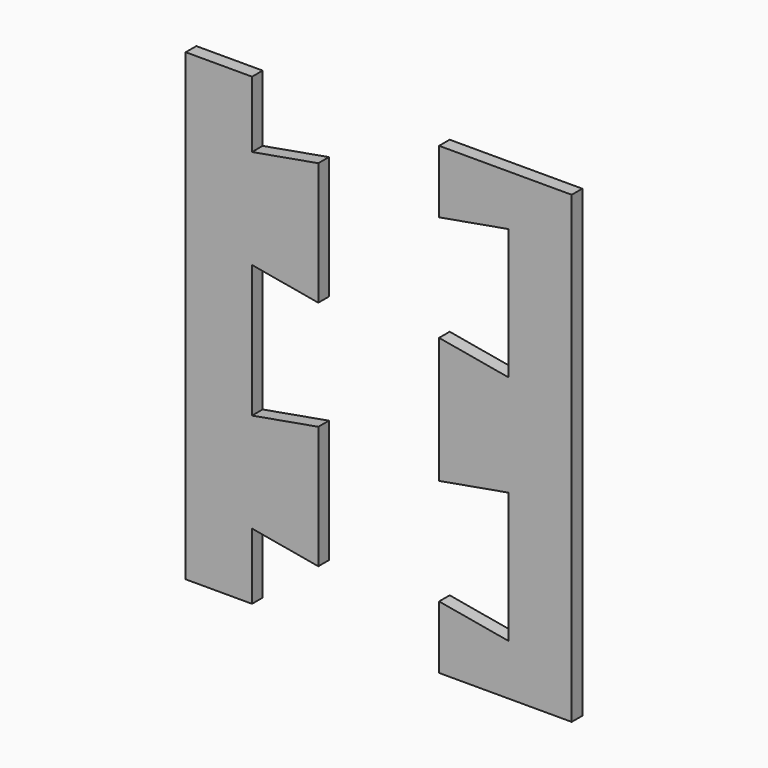
from build123d import *

# Parameters (mm, degrees)
F1_DEPTH = 2


with BuildPart() as f1:
    # F0 (on Front) → F1 (new body)
    with BuildSketch(Plane.XZ):
        Polygon((-22.85489, 0), (-12.85489, 0), (-12.85489, 10), (-2.85489, 8.23673), (-2.85489, 26.76327), (-12.85489, 25), (-12.85489, 35), (-12.85489, 45), (-2.85489, 43.23673), (-2.85489, 61.76327), (-12.85489, 60), (-12.85489, 70), (-22.85489, 70), (-22.85489, 35), align=None)
        Polygon((15.360895, 9.5), (15.360895, 0), (35.360895, 0), (35.360895, 35), (35.360895, 70), (15.360895, 70), (15.360895, 60.5), (25.860895, 62.351433), (25.860895, 42.648567), (15.360895, 44.5), (15.360895, 35), (15.360895, 25.5), (25.860895, 27.351433), (25.860895, 7.648567), align=None)
    extrude(amount=F1_DEPTH)


solid = f1.part
